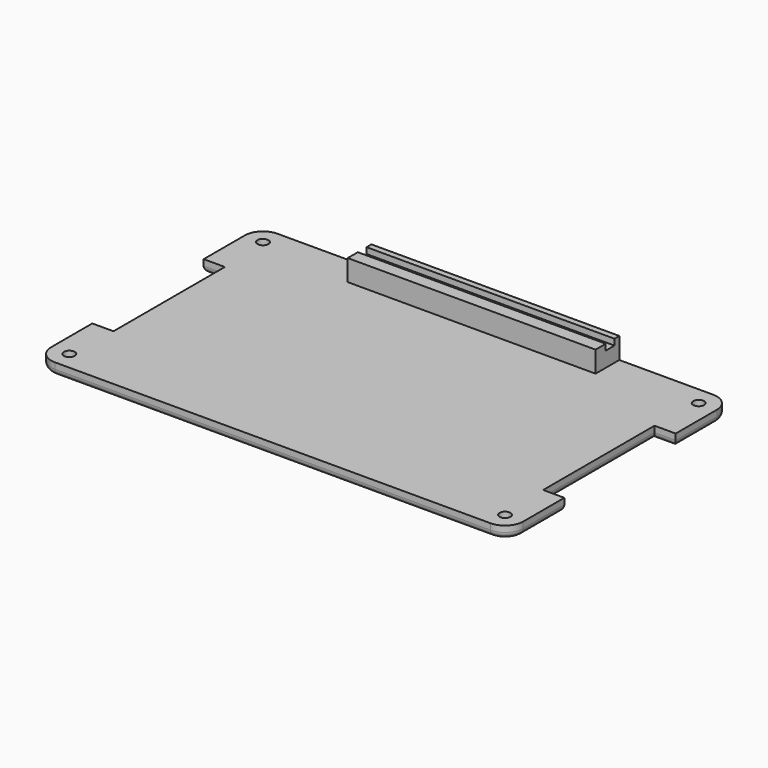
from build123d import *

# Parameters (mm, degrees)
F1_DEPTH  = 2
F2_R      = 3
F3_R      = 0.9
F4_DEPTH  = 2.5
F5_R      = 1
F6_W      = 40.96
F6_H      = 4.9
F7_DEPTH  = 3.5
F8_W      = 40.96
F8_H      = 1.8
F9_DEPTH  = 1
F10_ANGLE = 180
F12_R     = 1.9
F13_DEPTH = 0.8


with BuildPart() as f1:
    # F0 (on Top) → F1 (new body)
    with BuildSketch(Plane.XY):
        Polygon((33.1217415035, 28.7645919905), (-44.8782584965, 28.7645919905), (-44.8782584965, 17.2645919905), (-41.3782584965, 17.2645919905), (-41.3782584965, -5.7354080095), (-44.8782584965, -5.7354080095), (-44.8782584965, -17.2354080095), (33.1217415035, -17.2354080095), (33.1217415035, -5.7354080095), (29.6217415035, -5.7354080095), (29.6217415035, 17.2645919905), (33.1217415035, 17.2645919905), align=None)
    extrude(amount=F1_DEPTH)

    # F2
    f2_edges = [f1.edges().sort_by_distance(p)[0] for p in [
        (-44.878258, 28.764592, 1),
        (33.121742, 28.764592, 1),
        (33.121742, -17.235408, 1),
        (-44.878258, -17.235408, 1),
    ]]
    fillet(f2_edges, radius=F2_R)

    # F3 (on face) → F4 (cut)
    with BuildSketch(Plane.XY.offset(2)):
        with Locations((-41.8782584965, -14.2354080095)):
            Circle(F3_R)
        with Locations((30.1217415035, -14.2354080095)):
            Circle(F3_R)
        with Locations((30.1217415035, 25.7645919905)):
            Circle(F3_R)
        with Locations((-41.8782584965, 25.7645919905)):
            Circle(F3_R)
    extrude(amount=-F4_DEPTH, mode=Mode.SUBTRACT)

    # F5
    f5_edges = [f1.edges().sort_by_distance(p)[0] for p in [
        (33.121742, -9.985408, 2),
        (32.243062, -16.356728, 2),
        (31.371742, -5.735408, 2),
        (29.621742, 5.764592, 2),
        (31.371742, 17.264592, 2),
        (33.121742, 21.514592, 2),
        (-43.128258, 17.264592, 2),
        (-41.378258, 5.764592, 2),
        (-43.128258, -5.735408, 2),
    ]]
    fillet(f5_edges, radius=F5_R)

    # F6 (on face) → F7 (join)
    with BuildSketch(Plane(origin=(0, 0, 0), x_dir=(1, 0, 0), z_dir=(0, 0, -1))):
        with Locations((-5.8782584965, 14.7854080095)):
            Rectangle(F6_W, F6_H)
    extrude(amount=F7_DEPTH)

    # F8 (on face) → F9 (cut)
    with BuildSketch(Plane(origin=(0, 0, -3.5), x_dir=(1, 0, 0), z_dir=(0, 0, -1))):
        with Locations((-5.8782584965, 15.3354080095)):
            Rectangle(F8_W, F8_H)
    extrude(amount=-F9_DEPTH, mode=Mode.SUBTRACT)


with BuildPart() as f1_1:
    # F10: moved
    add(f1.part.rotate(Axis((-5.8782584965, 28.7645919905, 0), (1, 0, 0)), F10_ANGLE))


with BuildPart() as f1_2:
    # F11: moved
    add(f1_1.part.moved(Location((0, 0, 2))))

    # F12 (on face) → F13 (cut)
    with BuildSketch(Plane(origin=(0, 0, 0), x_dir=(1, 0, 0), z_dir=(0, 0, -1))):
        with Locations((-41.8782584965, -31.7645919905)):
            Circle(F12_R)
        with Locations((-41.8782584965, -71.7645919905)):
            Circle(F12_R)
        with Locations((30.1217415035, -71.7645919905)):
            Circle(F12_R)
        with Locations((30.1217415035, -31.7645919905)):
            Circle(F12_R)
    extrude(amount=-F13_DEPTH, mode=Mode.SUBTRACT)


solid = f1_2.part
